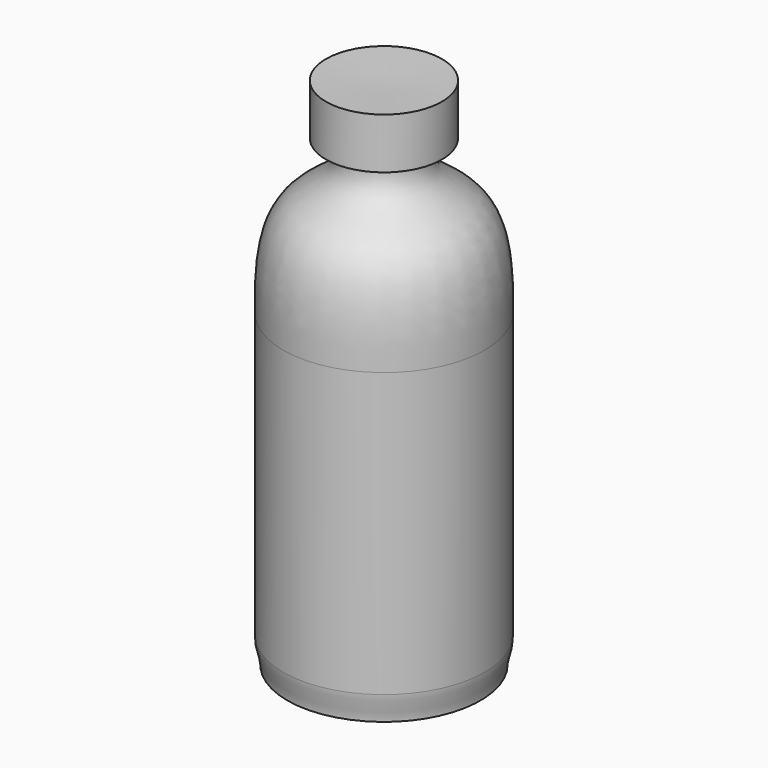
from build123d import *


with BuildPart() as f1:
    # F0 (on Front) → F1 (revolve)
    with BuildSketch(Plane.XZ):
        with BuildLine():
            Line((-37.4588370323, 59.732876718), (-37.4588370323, 48.8092340529))
            Line((-37.4588370323, 48.8092340529), (-37.4588370323, -45.6943430106))
            add(Edge.make_bspline(
                [(-37.4588370323, -45.6943430106), (-37.6298800111, -48.9646402564), (-35.7483886182, -52.1555552913), (-35.919431597, -55.4258525372)],
                knots=[0, 0, 0, 0, 9.852514743, 9.852514743, 9.852514743, 9.852514743], degree=3))
            Line((-35.919431597, -55.4258525372), (0, -55.4258525372))
            Line((0, -55.4258525372), (0, 126.7814934254))
            Line((0, 126.7814934254), (0, 135.206669569))
            Line((0, 135.206669569), (-21.5448252857, 135.9217166901))
            Line((-21.5448252857, 135.9217166901), (-21.5448252857, 116.9883906841))
            Line((-21.5448252857, 116.9883906841), (-14.3632190302, 116.9883906841))
            add(Edge.make_bspline(
                [(-37.4588370323, 59.732876718), (-37.8051019347, 75.656499795), (-35.7428372279, 95.5439069808), (-14.945244298, 104.3960584298), (-14.0862612605, 112.3647683936), (-14.3632190302, 116.9883906841)],
                knots=[0, 0, 0, 0, 0.4379829854, 0.7509225673, 1, 1, 1, 1], degree=3))
        make_face()
    revolve(axis=Axis((0, 0, 35.6778204441), (0, 0, -1)))


solid = f1.part
